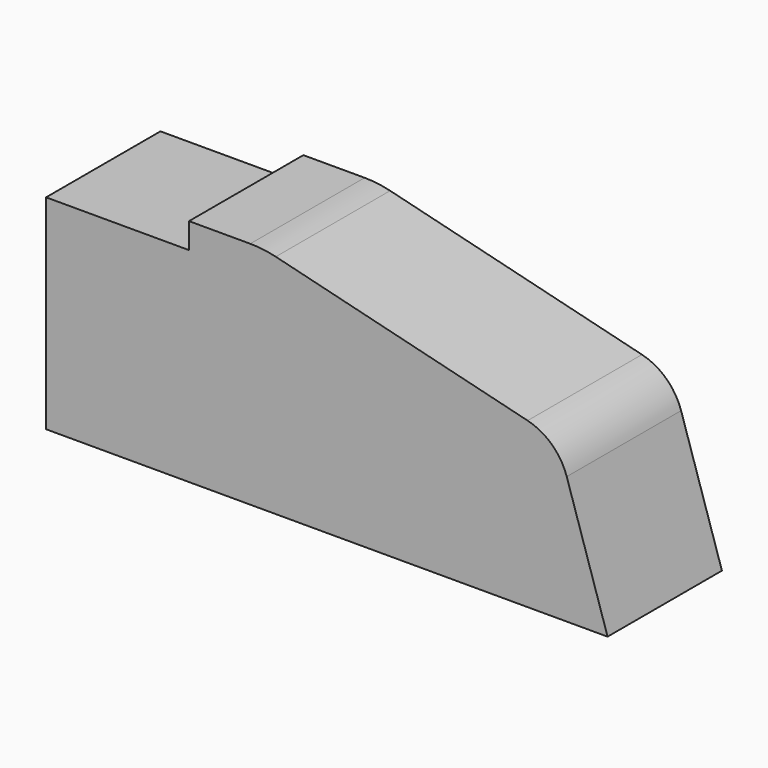
from build123d import *

# Parameters (mm, degrees)
BOX_W     = 30
BOX_H     = 37
BOX_DEPTH = 13
PAD_DEPTH = 28


with BuildPart() as cube:
    # Box → Box (new body)
    with BuildSketch(Plane(origin=(-2, -32, 40), x_dir=(1, 0, 0), z_dir=(0, 0, 1))):
        with Locations((15, 18.5)):
            Rectangle(BOX_W, BOX_H)
    extrude(amount=BOX_DEPTH)


with BuildPart() as cut:
    # Sketch → Pad (new body)
    with BuildSketch(Plane.XZ):
        with BuildLine():
            Line((0, 0), (110, 0))
            Line((110, 0), (102, 25))
            ThreePointArc((102, 25), (99.099229, 29.583137), (94.332421, 32.171022))
            Line((94.332421, 32.171022), (45, 44.39))
            ThreePointArc((45, 44.39), (42.518536, 44.846937), (40, 45))
            Line((40, 45), (0, 45))
            Line((0, 45), (0, 0))
        make_face()
    extrude(amount=PAD_DEPTH)

    # Cut: cut Cube
    add(cube.part, mode=Mode.SUBTRACT)


solid = cut.part
